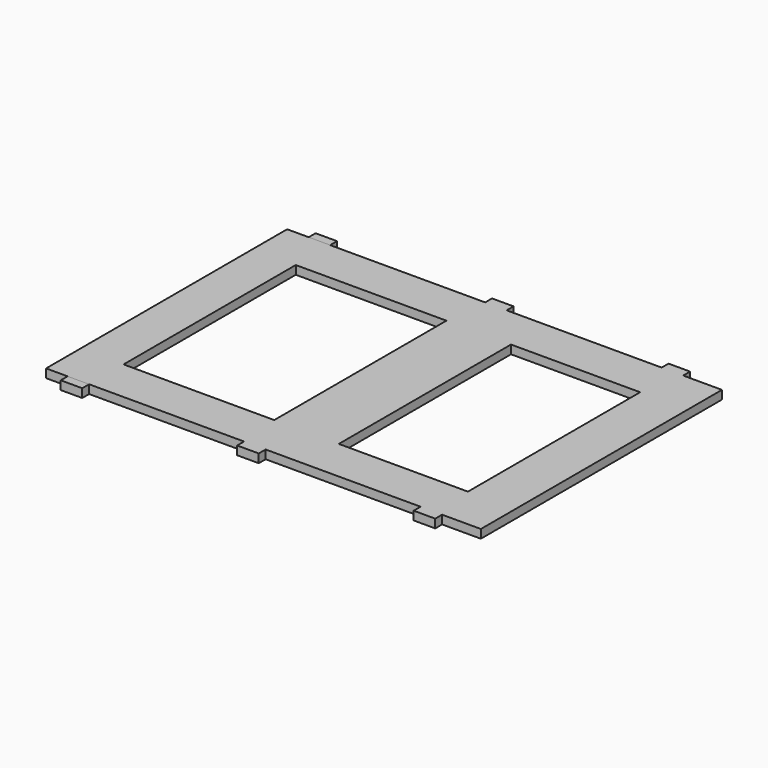
from build123d import *

# Parameters (mm, degrees)
F0_W      = 101
F0_H      = 2
F1_DEPTH  = 12
F0_H_2    = 70
F2_DEPTH  = 2
F4_R      = 1.75
F5_DEPTH  = 100
F3_W      = 48
F3_H      = 12
F6_DEPTH  = 2
F7_W      = 35
F7_H      = 50
F7_W_2    = 30
F8_DEPTH  = 2
F9_W      = 5
F9_H      = 10
F10_DEPTH = 80
F11_DEPTH = 12


with BuildPart() as f1:
    # F0 (on Top) → F1 (new body)
    with BuildSketch(Plane.XY):
        Polygon((-42.3766899407, -41.0996641517), (-42.3766899407, 28.9003358483), (-42.3766899407, 30.9003358483), (-44.3766899407, 30.9003358483), (-44.3766899407, -43.0996641517), (-42.3766899407, -43.0996641517), align=None)
        with Locations((8.1233100593, 29.9003358483)):
            Rectangle(F0_W, F0_H)
        Polygon((58.6233100593, 30.9003358483), (58.6233100593, 28.9003358483), (58.6233100593, -41.0996641517), (58.6233100593, -43.0996641517), (60.6233100593, -43.0996641517), (60.6233100593, 30.9003358483), align=None)
        with Locations((8.1233100593, -42.0996641517)):
            Rectangle(F0_W, F0_H)
    extrude(amount=F1_DEPTH)

    # F0 (on Top) → F2 (join)
    with BuildSketch(Plane.XY):
        with Locations((8.1233100593, -6.0996641517)):
            Rectangle(F0_W, F0_H_2)
    extrude(amount=F2_DEPTH)

    # F4 (on face) → F5 (cut)
    with BuildSketch(Plane.XZ.offset(43.0996641517)):
        with Locations((44.6233227849, 5.0000082701)):
            Circle(F4_R)
        with Locations((-32.3766772151, 5.0000082701)):
            Circle(F4_R)
    extrude(amount=-F5_DEPTH, mode=Mode.SUBTRACT)

    # F3 (on face) → F6 (cut)
    with BuildSketch(Plane.YZ.offset(60.6233100593)):
        with Locations((-11.0996702909, 6)):
            Rectangle(F3_W, F3_H)
        with Locations((-11.0996702909, 6)):
            Rectangle(F3_W, F3_H)
    extrude(amount=-F6_DEPTH, mode=Mode.SUBTRACT)

    # F7 (on face) → F8 (cut)
    with BuildSketch(Plane.XY.offset(2)):
        with Locations((-14.876691699, -6.0996547341)):
            Rectangle(F7_W, F7_H)
        with Locations((32.623308301, -6.0996547341)):
            Rectangle(F7_W_2, F7_H)
    extrude(amount=-F8_DEPTH, mode=Mode.SUBTRACT)

    # F9 (on face) → F10 (cut)
    with BuildSketch(Plane.XZ.offset(43.0996641517)):
        with Locations((-34.8767231405, 7.0000035018)):
            Rectangle(F9_W, F9_H)
        with Locations((6.1232769489, 7)):
            Rectangle(F9_W, F9_H)
        with Locations((47.1232769489, 7)):
            Rectangle(F9_W, F9_H)
    extrude(amount=-F10_DEPTH, mode=Mode.SUBTRACT)

    # F11 (cut): faces of the model
    f11_faces = [f1.faces().sort_by_distance(p)[0] for p in [
        (-14.3767230958, 29.9003358483, 12),
        (26.6232769489, 29.9003358483, 12),
        (49.8342274051, 29.9003358483, 12),
        (54.1232935041, -41.2356790884, 12),
        (26.6232769489, -42.0996641517, 12),
        (-14.3767230958, -42.0996641517, 12),
        (-42.9600276875, -6.0996641517, 12),
    ]]
    extrude(f11_faces, amount=-F11_DEPTH, mode=Mode.SUBTRACT)


solid = f1.part
